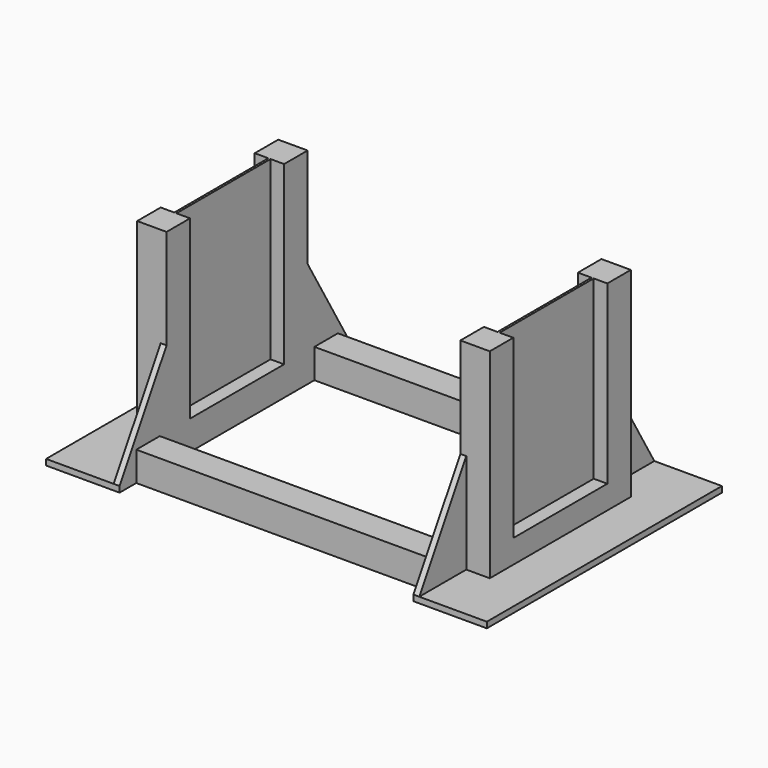
from build123d import *

# Parameters (mm, degrees)
F1_DEPTH  = 10
F4_DEPTH  = 0.375
F5_W      = 20
F5_H      = 2
F6_DEPTH  = 25
F8_DEPTH  = 2
F9_W      = 10
F9_H      = 10
F10_DEPTH = 50


with BuildPart() as f1:
    # F0 (on Right) → F1 (new body)
    with BuildSketch(Plane.YZ):
        Polygon((-30, 0), (0, 0), (30, 0), (30, 70), (20, 70), (20, 10), (-20, 10), (-20, 70), (-30, 70), align=None)
    extrude(amount=F1_DEPTH)

    # F3 (on offset) → F4 (join, symmetric)
    with BuildSketch(Plane.YZ.offset(5)):
        Polygon((-20, 10), (0, 10), (20, 10), (20, 70), (-20, 70), align=None)
    extrude(amount=F4_DEPTH, both=True)

    # F5 (on face) → F6 (join)
    with BuildSketch(Plane(origin=(0, 0, 0), x_dir=(0, -1, 0), z_dir=(-1, 0, 0))):
        Polygon((-30, 0), (0, 0), (30, 0), (30, 2), (-30, 2), align=None)
        with Locations((40, 1)):
            Rectangle(F5_W, F5_H)
        with Locations((-40, 1)):
            Rectangle(F5_W, F5_H)
    extrude(amount=-F6_DEPTH)

    # F7 (on face) → F8 (join)
    with BuildSketch(Plane(origin=(0, 0, 0), x_dir=(0, -1, 0), z_dir=(-1, 0, 0))):
        Polygon((-50, 2), (-30, 2), (-30, 36), align=None)
        Polygon((30, 2), (50, 2), (30, 36), align=None)
    extrude(amount=-F8_DEPTH)

    # F9 (on face) → F10 (join)
    with BuildSketch(Plane(origin=(0, 0, 0), x_dir=(0, -1, 0), z_dir=(-1, 0, 0))):
        with Locations((-37.8820885718, 5)):
            Rectangle(F9_W, F9_H)
        with Locations((37.8820885718, 5)):
            Rectangle(F9_W, F9_H)
    extrude(amount=F10_DEPTH)

    # F12: F1 across plane


with BuildPart() as f1_1:
    add(f1.part)
    add(f1.part.mirror(Plane.YZ.offset(-50)))


solid = f1_1.part
